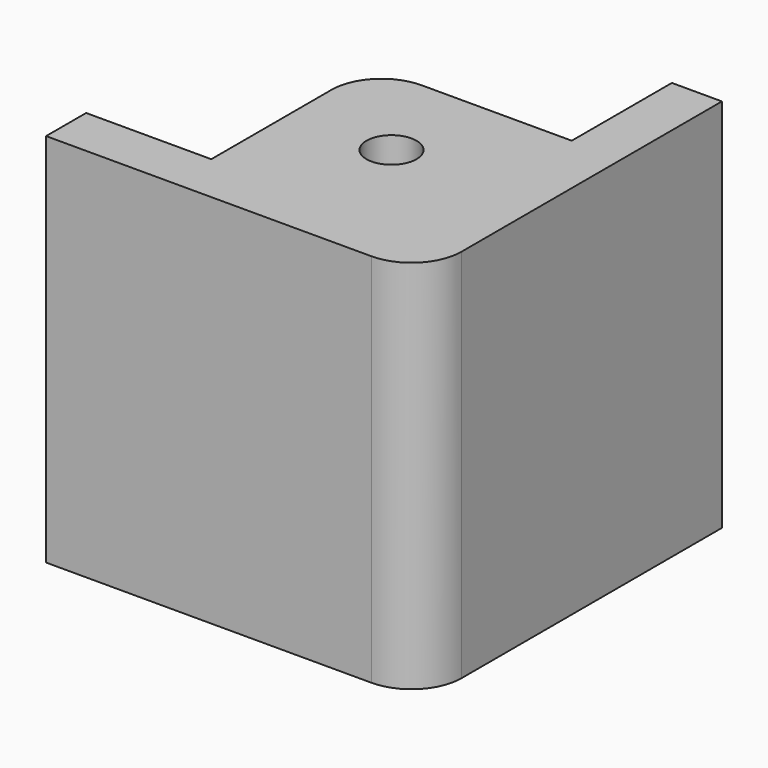
from build123d import *

# Parameters (mm, degrees)
SKETCH_W        = 110
SKETCH_H        = 80
PAD_DEPTH       = 50
SKETCH001_R     = 1
POCKET_DEPTH    = 48
FILLET_R        = 2
FILLET001_R     = 2
SKETCH002_R     = 2.55
SKETCH002_W     = 11.5
SKETCH002_H     = 19.1
POCKET001_DEPTH = 5
SKETCH003_R     = 2.55
POCKET002_DEPTH = 5
BOX_W           = 15
BOX_H           = 15
BOX_DEPTH       = 15


with BuildPart() as body:
    # Sketch → Pad (new body)
    with BuildSketch(Plane.XY):
        with Locations((55, 40)):
            Rectangle(SKETCH_W, SKETCH_H)
    extrude(amount=PAD_DEPTH)

    # Sketch001 (on Face6 of Pad) → Pocket (cut)
    with BuildSketch(Plane.XY.offset(50)):
        with Locations((6, 74)):
            Circle(SKETCH001_R)
        with Locations((104, 74)):
            Circle(SKETCH001_R)
        with Locations((104, 6)):
            Circle(SKETCH001_R)
        with Locations((6, 6)):
            Circle(SKETCH001_R)
        Polygon((2, 10), (10, 10), (10, 2), (100, 2), (100, 10), (108, 10), (108, 70), (100, 70), (100, 78), (10, 78), (10, 70), (2, 70), align=None)
    extrude(amount=-POCKET_DEPTH, mode=Mode.SUBTRACT)

    # Fillet
    fillet_edges = [body.edges().sort_by_distance(p)[0] for p in [
        (0, 80, 25),
        (0, 40, 0),
        (0, 0, 25),
        (55, 0, 0),
        (110, 0, 25),
        (110, 80, 25),
        (110, 40, 0),
        (55, 80, 0),
    ]]
    fillet(fillet_edges, radius=FILLET_R)

    # Fillet001
    fillet001_edges = [body.edges().sort_by_distance(p)[0] for p in [
        (100, 10, 26),
        (100, 70, 26),
        (10, 70, 26),
        (10, 10, 26),
    ]]
    fillet(fillet001_edges, radius=FILLET001_R)

    # Sketch002 (on Face22 of Fillet001) → Pocket001 (cut)
    with BuildSketch(Plane.YZ.offset(110)):
        with Locations((15, 27.5)):
            Circle(SKETCH002_R)
        with Locations((28.75, 27.5)):
            Rectangle(SKETCH002_W, SKETCH002_H)
    extrude(amount=-POCKET001_DEPTH, mode=Mode.SUBTRACT)

    # Sketch003 (on Face18 of Pocket001) → Pocket002 (cut)
    with BuildSketch(Plane.XZ):
        with Locations((95, 27.5)):
            Circle(SKETCH003_R)
    extrude(amount=-POCKET002_DEPTH, mode=Mode.SUBTRACT)


with BuildPart() as common:
    # Box → Box (new body)
    with BuildSketch(Plane(origin=(95, 0, 35), x_dir=(1, 0, 0), z_dir=(0, 0, 1))):
        with Locations((7.5, 7.5)):
            Rectangle(BOX_W, BOX_H)
    extrude(amount=BOX_DEPTH)

    # Common: intersect Body
    add(body.part, mode=Mode.INTERSECT)


solid = common.part
